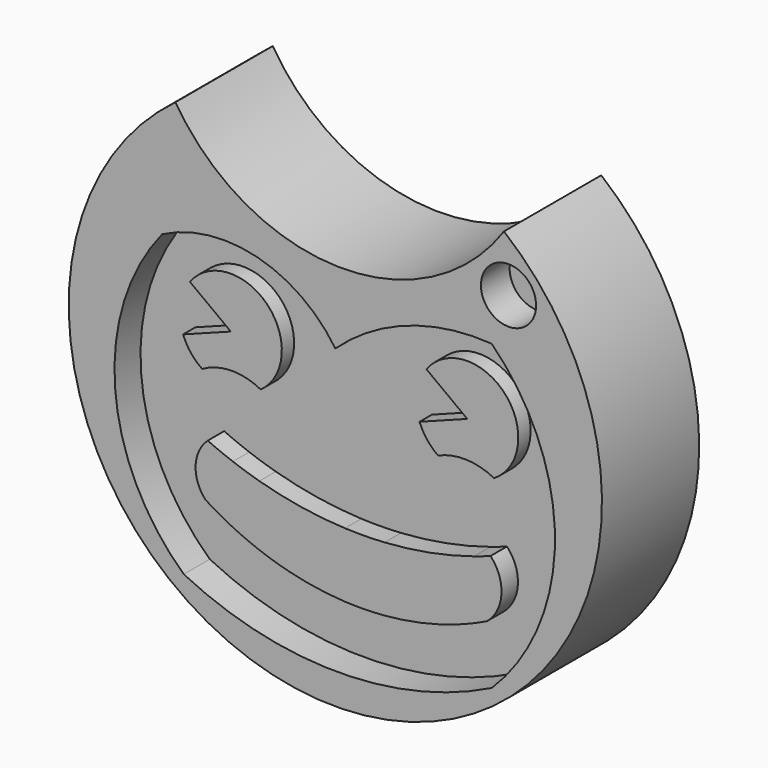
from build123d import *

# Parameters (mm, degrees)
F1_DEPTH = 12.7
F4_DEPTH = 2.794
F5_DEPTH = 3.556
F7_DEPTH = 0.508
F8_R     = 4.0932616512
F9_DEPTH = 5.334


with BuildPart() as f1:
    # F0 (on Front) → F1 (new body)
    with BuildSketch(Plane.XZ):
        with BuildLine():
            ThreePointArc((25.0273931209, 30.6353052518), (0.3760595222, 18.0051146813), (-23.726411007, 31.6535899232))
            ThreePointArc((-23.726411007, 31.6535899232), (-0.8260535898, -39.5500944344), (25.0273931209, 30.6353052518))
        make_face()
    extrude(amount=F1_DEPTH)

    # F2 (on face) → F4 (join)
    with BuildSketch(Plane.XZ.offset(12.7)):
        with BuildLine():
            Line((-17.5436979513, 2.6755574061), (-24.6252994984, 0))
            ThreePointArc((-24.6252994984, 0), (-23.4886257248, -2.0111815106), (-21.798320189, -3.5859022896))
            ThreePointArc((-21.798320189, -3.5859022896), (-17.4685188777, -2.3995249593), (-13.1054765957, -3.4571319799))
            ThreePointArc((-13.1054765957, -3.4571319799), (-12.1526852264, 7.9901288569), (-23.6123846381, 7.2009004653))
            Line((-23.6123846381, 7.2009004653), (-17.5436979513, 2.6755574061))
        make_face()
        with BuildLine():
            ThreePointArc((21.5031847078, -3.7765858449), (23.1328376444, 7.7813585574), (11.4750112645, 7.2009004653))
            Line((11.4750112645, 7.2009004653), (17.5436979513, 2.6755574061))
            Line((17.5436979513, 2.6755574061), (10.4620964041, 0))
            ThreePointArc((10.4620964041, 0), (11.5679326814, -1.971798546), (13.2067047826, -3.5291326072))
            ThreePointArc((13.2067047826, -3.5291326072), (17.3835685766, -2.6931747019), (21.5031847078, -3.7765858449))
        make_face()
    extrude(amount=F4_DEPTH)

    # F3 (on face) → F5 (join)
    with BuildSketch(Plane.XZ.offset(12.7)):
        with BuildLine():
            ThreePointArc((-16.6242958605, -13.6971237379), (-18.5050049332, -12.9721756726), (-20.3581005335, -12.1792992577))
            ThreePointArc((-20.3581005335, -12.1792992577), (-22.1561373864, -16.0172531608), (-20.7136999816, -20.0025010854))
            ThreePointArc((-20.7136999816, -20.0025010854), (-18.9311591949, -21.0712313357), (-17.0989353576, -22.052348971))
            Line((-17.0989353576, -22.052348971), (-16.6242958605, -13.6971237379))
        make_face()
        with BuildLine():
            ThreePointArc((-12.6964952724, -14.9659873575), (-14.6722160438, -14.368146145), (-16.6242958605, -13.6971237379))
            Line((-16.6242958605, -13.6971237379), (-17.0989353576, -22.052348971))
            ThreePointArc((-17.0989353576, -22.052348971), (-14.9246231849, -23.0743286561), (-12.6964952724, -23.9729508833))
            Line((-12.6964952724, -23.9729508833), (-12.6964952724, -14.9659873575))
        make_face()
        with BuildLine():
            ThreePointArc((0, -17.0006339589), (-6.4074737383, -16.3528902815), (-12.6964952724, -14.9659873575))
            Line((-12.6964952724, -14.9659873575), (-12.6964952724, -23.9729508833))
            ThreePointArc((-12.6964952724, -23.9729508833), (-10.5399154671, -24.7086802755), (-8.3473040499, -25.3288329734))
            ThreePointArc((-8.3473040499, -25.3288329734), (-4.2048726292, -26.1675803087), (0, -26.5945244967))
            Line((0, -26.5945244967), (0, -17.0006339589))
        make_face()
        with BuildLine():
            ThreePointArc((5.8929180982, -16.9381003904), (2.9472910815, -17.047774638), (0, -17.0006339589))
            Line((0, -17.0006339589), (0, -26.5945244967))
            ThreePointArc((0, -26.5945244967), (2.9481689707, -26.6461592475), (5.8929180982, -26.4950996461))
            Line((5.8929180982, -26.4950996461), (5.8929180982, -16.9381003904))
        make_face()
        with BuildLine():
            ThreePointArc((19.1572063101, -14.4431000637), (12.6013208797, -16.0960178297), (5.8929180982, -16.9381003904))
            Line((5.8929180982, -16.9381003904), (5.8929180982, -26.4950996461))
            ThreePointArc((5.8929180982, -26.4950996461), (9.9769028198, -25.9458134618), (13.9893206769, -25.0071178464))
            ThreePointArc((13.9893206769, -25.0071178464), (16.6026933877, -24.1703555629), (19.1572063101, -23.1681820381))
            Line((19.1572063101, -23.1681820381), (19.1572063101, -14.4431000637))
        make_face()
        with BuildLine():
            ThreePointArc((21.6026995331, -13.6017007753), (20.3848629816, -14.0366713116), (19.1572063101, -14.4431000637))
            Line((19.1572063101, -14.4431000637), (19.1572063101, -23.1681820381))
            ThreePointArc((19.1572063101, -23.1681820381), (20.1276903937, -22.7368350705), (21.0871963633, -22.2815902384))
            ThreePointArc((21.0871963633, -22.2815902384), (23.2235021691, -18.0532138234), (21.6026995331, -13.6017007753))
        make_face()
    extrude(amount=F5_DEPTH)

    # F6 (on face) → F7 (join)
    with BuildSketch(Plane.XZ.offset(12.7)):
        with BuildLine():
            ThreePointArc((0, 7.2009004653), (-11.5972409177, 15.3673055662), (-25.6920997053, 13.7795004994))
            ThreePointArc((-25.6920997053, 13.7795004994), (-32.6858017864, -8.5460763608), (-22.4917009473, -29.6037010849))
            ThreePointArc((-22.4917009473, -29.6037010849), (0.3555994481, -34.9506746467), (23.2028998435, -29.6037010849))
            ThreePointArc((23.2028998435, -29.6037010849), (32.5884250894, -7.1181977593), (23.2028998435, 15.3673055662))
            ThreePointArc((23.2028998435, 15.3673055662), (10.754620627, 13.690167259), (0, 7.2009004653))
        make_face()
    extrude(amount=F7_DEPTH)

    # F8 (on face) → F9 (join)
    with BuildSketch(Plane.XZ.offset(12.7)):
        with BuildLine():
            ThreePointArc((-23.726411007, 31.6535899232), (-0.8260535898, -39.5500944344), (25.0273931209, 30.6353052518))
            ThreePointArc((25.0273931209, 30.6353052518), (0.3760595222, 18.0051146813), (-23.726411007, 31.6535899232))
        make_face()
        with BuildLine():
            ThreePointArc((0, 7.2009004653), (10.754620627, 13.690167259), (23.2028998435, 15.3673055662))
            ThreePointArc((23.2028998435, 15.3673055662), (32.5884250894, -7.1181977593), (23.2028998435, -29.6037010849))
            ThreePointArc((23.2028998435, -29.6037010849), (0.3555994481, -34.9506746467), (-22.4917009473, -29.6037010849))
            ThreePointArc((-22.4917009473, -29.6037010849), (-32.6858017864, -8.5460763608), (-25.6920997053, 13.7795004994))
            ThreePointArc((-25.6920997053, 13.7795004994), (-11.5972409177, 15.3673055662), (0, 7.2009004653))
        make_face(mode=Mode.SUBTRACT)
        with Locations((25.6920978427, 22.4917009473)):
            Circle(F8_R, mode=Mode.SUBTRACT)
    extrude(amount=F9_DEPTH)


solid = f1.part
